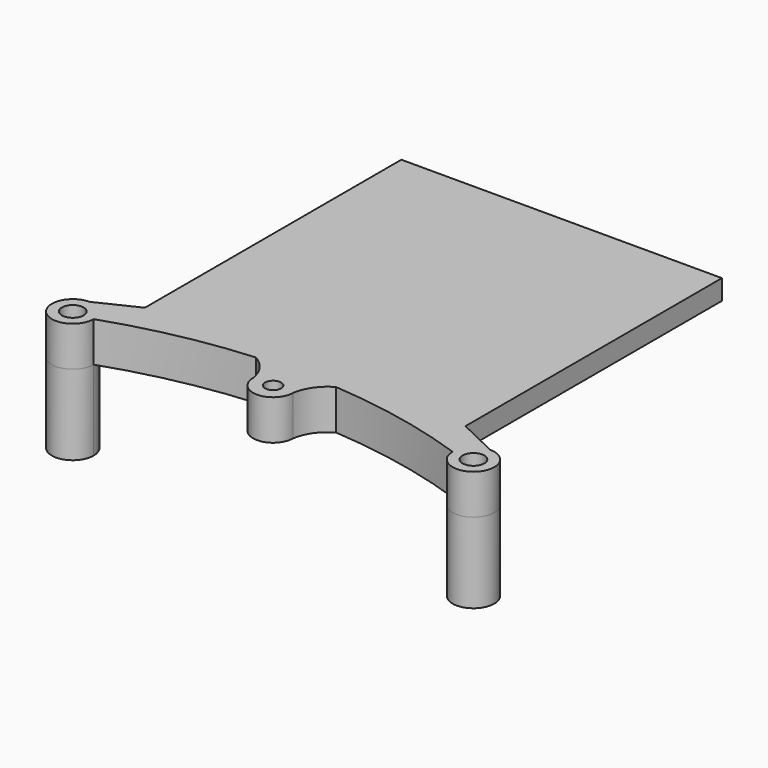
from build123d import *

# Parameters (mm, degrees)
F0_W     = 101.6
F0_H     = 101.6
F1_DEPTH = 6.35
F2_R     = 3.429
F2_R_2   = 2.54
F3_DEPTH = 12.7
F4_R     = 3.429
F5_DEPTH = 25.4
F6_R     = 2.54
F7_DEPTH = 3.175


with BuildPart() as f1:
    # F0 (on Top) → F1 (new body)
    with BuildSketch(Plane.XY):
        Rectangle(F0_W, F0_H)
    extrude(amount=-F1_DEPTH)

    # F2 (on face) → F3 (join)
    with BuildSketch(Plane.XY):
        with BuildLine():
            Line((-50.8, -50.8), (-63.5, -56.896))
            ThreePointArc((-63.5, -56.896), (-68.169733183, -68.169733183), (-56.896, -63.5))
            ThreePointArc((-56.896, -63.5), (-35.0917960505, -57.5358809514), (-12.7, -54.4372529439))
            ThreePointArc((-12.7, -54.4372529439), (-8.4860183708, -58.2406426383), (-6.35, -63.5))
            ThreePointArc((-6.35, -63.5), (0, -57.15), (6.35, -63.5))
            ThreePointArc((6.35, -63.5), (8.4860183708, -58.2406426383), (12.7, -54.4372529439))
            ThreePointArc((12.7, -54.4372529439), (35.0917960505, -57.5358809514), (56.896, -63.5))
            ThreePointArc((56.896, -63.5), (68.169733183, -68.169733183), (63.5, -56.896))
            Line((63.5, -56.896), (50.8, -50.8))
            Line((50.8, -50.8), (-50.8, -50.8))
        make_face()
        with Locations((-63.5, -63.5)):
            Circle(F2_R, mode=Mode.SUBTRACT)
        with Locations((63.5, -63.5)):
            Circle(F2_R, mode=Mode.SUBTRACT)
        with BuildLine():
            ThreePointArc((6.35, -63.5), (0, -57.15), (-6.35, -63.5))
            ThreePointArc((-6.35, -63.5), (0, -69.85), (6.35, -63.5))
        make_face()
        with Locations((0, -63.5)):
            Circle(F2_R_2, mode=Mode.SUBTRACT)
    extrude(amount=-F3_DEPTH)

    # F4 (on face) → F5 (join)
    with BuildSketch(Plane(origin=(0, 0, -12.7), x_dir=(1, 0, 0), z_dir=(0, 0, -1))):
        with BuildLine():
            ThreePointArc((-56.896, 63.5), (-68.169733183, 68.169733183), (-63.5, 56.896))
            ThreePointArc((-63.5, 56.896), (-58.830266817, 58.830266817), (-56.896, 63.5))
        make_face()
        with Locations((-63.5, 63.5)):
            Circle(F4_R, mode=Mode.SUBTRACT)
        with BuildLine():
            ThreePointArc((56.896, 63.5), (58.830266817, 58.830266817), (63.5, 56.896))
            ThreePointArc((63.5, 56.896), (68.169733183, 68.169733183), (56.896, 63.5))
        make_face()
        with Locations((63.5, 63.5)):
            Circle(F4_R, mode=Mode.SUBTRACT)
    extrude(amount=F5_DEPTH)

    # F6 (on face) → F7 (cut)
    with BuildSketch(Plane(origin=(0, 0, -12.7), x_dir=(1, 0, 0), z_dir=(0, 0, -1))):
        Polygon((2.749630657, 68.2625), (-2.749630657, 68.2625), (-5.499261314, 63.5), (-2.749630657, 58.7375), (2.749630657, 58.7375), (5.499261314, 63.5), align=None)
        with Locations((0, 63.5)):
            Circle(F6_R, mode=Mode.SUBTRACT)
    extrude(amount=-F7_DEPTH, mode=Mode.SUBTRACT)


solid = f1.part
